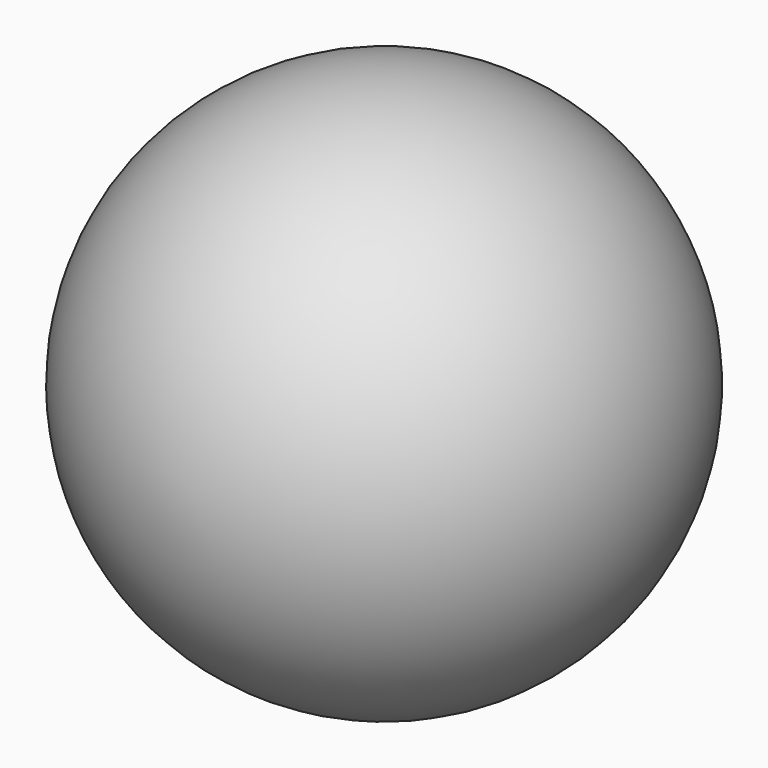
from build123d import *

# Parameters (mm, degrees)
F0_W = 7.1046827361
F0_H = 0.6236308965


with BuildPart() as f1:
    # F0 (on Top) → F1 (revolve)
    with BuildSketch(Plane.XY):
        with BuildLine():
            Line((0, -71.1006122068), (0, 71.1006122068))
            ThreePointArc((0, 71.1006122068), (-4.4334842691, 70.9622524545), (-8.8497136717, 70.5477116859))
            ThreePointArc((-8.8497136717, 70.5477116859), (-70.9622524545, -4.4334842691), (0, -71.1006122068))
        make_face()
        with BuildLine():
            ThreePointArc((-8.8497136717, 70.5477116859), (-4.4334842691, 70.9622524545), (0, 71.1006122068))
            Line((0, 71.1006122068), (0, 73.2751613703))
            Line((0, 73.2751613703), (-7.1046827361, 73.2751613703))
            Line((-7.1046827361, 73.2751613703), (-8.8497136717, 73.2751613703))
            Line((-8.8497136717, 73.2751613703), (-8.8497136717, 70.5477116859))
        make_face()
        with Locations((-3.552341368, 73.5869768186)):
            Rectangle(F0_W, F0_H)
    revolve(axis=Axis((0, -0.4040896893, 0), (0, -1, 0)))


solid = f1.part
